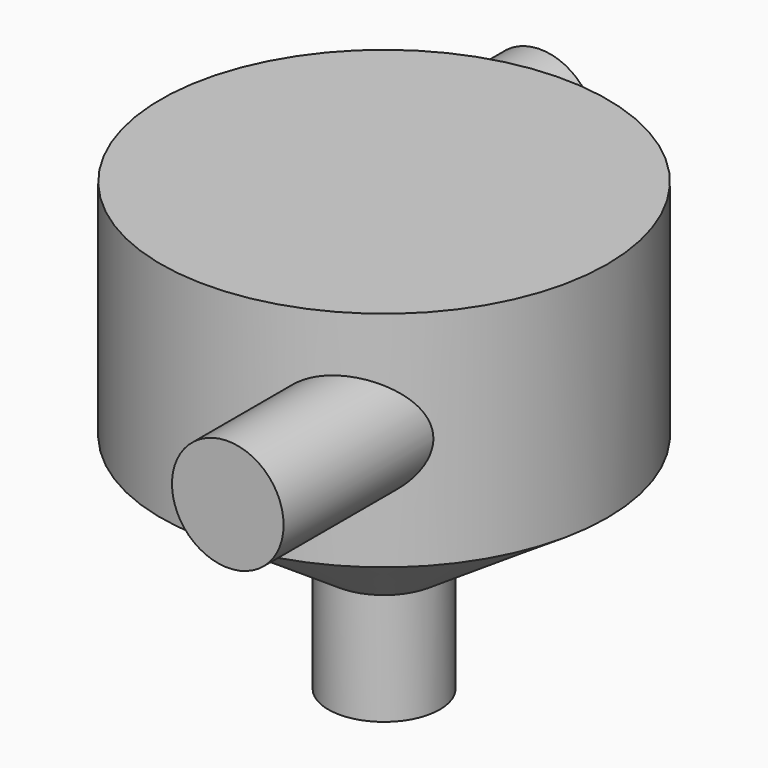
from build123d import *

# Parameters (mm, degrees)
F2_R     = 500
F3_DEPTH = 3000
F4_R     = 500
F5_DEPTH = 3000


with BuildPart() as f1:
    # F0 (on Front) → F1 (revolve)
    with BuildSketch(Plane.XZ):
        Polygon((0, 4000), (0, 0), (500, 0), (500, 1000), (2000, 2000), (2000, 4000), align=None)
    revolve(axis=Axis((0, 0, 2000), (0, 0, -1)))

    # F2 (on Front) → F3 (join)
    with BuildSketch(Plane.XZ):
        with Locations((1000, 3000)):
            Circle(F2_R)
    extrude(amount=F3_DEPTH)

    # F4 (on Front) → F5 (join)
    with BuildSketch(Plane.XZ):
        with Locations((-1000, 3000)):
            Circle(F4_R)
    extrude(amount=-F5_DEPTH)


solid = f1.part
